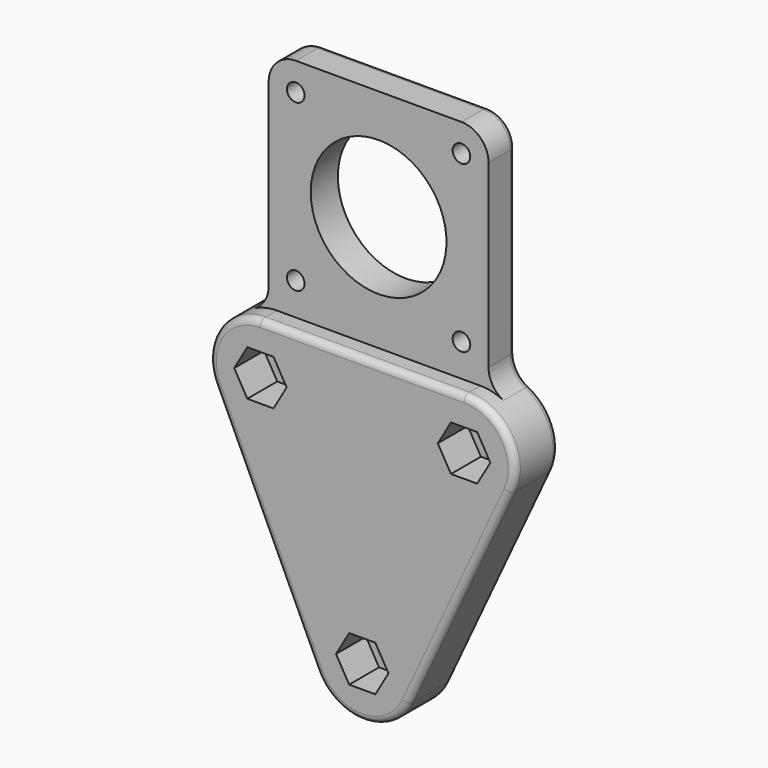
from build123d import *

# Parameters (mm, degrees)
F1_DEPTH       = 7
F0_R           = 2.75
F2_DEPTH       = 3.175
F3_R           = 12.7
F4_DEPTH       = 6.35
F5_D           = 3.3
F5_CBORE_D     = 6.5
F5_CBORE_DEPTH = 2.5
F6_R           = 5.08
F7_R           = 1.27


with BuildPart() as f1:
    # F0 (on Front) → F1 (new body)
    with BuildSketch(Plane.XZ):
        with BuildLine():
            Line((19.05, 0), (-19.05, 0))
            ThreePointArc((-19.05, 0), (-27.0823171118, -4.4056732068), (-27.6841325359, -13.5471114297))
            Line((-27.6841325359, -13.5471114297), (-8.6341325359, -54.4411114297))
            ThreePointArc((-8.6341325359, -54.4411114297), (0, -59.944), (8.6341325359, -54.4411114297))
            Line((8.6341325359, -54.4411114297), (27.6841325359, -13.5471114297))
            ThreePointArc((27.6841325359, -13.5471114297), (27.0823171118, -4.4056732068), (19.05, 0))
        make_face()
        Polygon((4.9074772881, -50.419), (2.4537386441, -54.669), (-2.4537386441, -54.669), (-4.9074772881, -50.419), (-2.4537386441, -46.169), (2.4537386441, -46.169), align=None, mode=Mode.SUBTRACT)
        Polygon((-14.1425227119, -9.525), (-16.5962613559, -13.775), (-21.5037386441, -13.775), (-23.9574772881, -9.525), (-21.5037386441, -5.275), (-16.5962613559, -5.275), align=None, mode=Mode.SUBTRACT)
        Polygon((23.9574772881, -9.525), (21.5037386441, -13.775), (16.5962613559, -13.775), (14.1425227119, -9.525), (16.5962613559, -5.275), (21.5037386441, -5.275), align=None, mode=Mode.SUBTRACT)
    extrude(amount=F1_DEPTH)

    # F0 (on Front) → F2 (join)
    with BuildSketch(Plane.XZ):
        with BuildLine():
            Line((19.05, 0), (-19.05, 0))
            ThreePointArc((-19.05, 0), (-27.0823171118, -4.4056732068), (-27.6841325359, -13.5471114297))
            Line((-27.6841325359, -13.5471114297), (-8.6341325359, -54.4411114297))
            ThreePointArc((-8.6341325359, -54.4411114297), (0, -59.944), (8.6341325359, -54.4411114297))
            Line((8.6341325359, -54.4411114297), (27.6841325359, -13.5471114297))
            ThreePointArc((27.6841325359, -13.5471114297), (27.0823171118, -4.4056732068), (19.05, 0))
        make_face()
        Polygon((4.9074772881, -50.419), (2.4537386441, -54.669), (-2.4537386441, -54.669), (-4.9074772881, -50.419), (-2.4537386441, -46.169), (2.4537386441, -46.169), align=None, mode=Mode.SUBTRACT)
        Polygon((-14.1425227119, -9.525), (-16.5962613559, -13.775), (-21.5037386441, -13.775), (-23.9574772881, -9.525), (-21.5037386441, -5.275), (-16.5962613559, -5.275), align=None, mode=Mode.SUBTRACT)
        Polygon((23.9574772881, -9.525), (21.5037386441, -13.775), (16.5962613559, -13.775), (14.1425227119, -9.525), (16.5962613559, -5.275), (21.5037386441, -5.275), align=None, mode=Mode.SUBTRACT)
        Polygon((16.5962613559, -13.775), (21.5037386441, -13.775), (23.9574772881, -9.525), (21.5037386441, -5.275), (16.5962613559, -5.275), (14.1425227119, -9.525), align=None)
        with Locations((19.05, -9.525)):
            Circle(F0_R, mode=Mode.SUBTRACT)
        Polygon((-21.5037386441, -13.775), (-16.5962613559, -13.775), (-14.1425227119, -9.525), (-16.5962613559, -5.275), (-21.5037386441, -5.275), (-23.9574772881, -9.525), align=None)
        with Locations((-19.05, -9.525)):
            Circle(F0_R, mode=Mode.SUBTRACT)
        Polygon((-2.4537386441, -54.669), (2.4537386441, -54.669), (4.9074772881, -50.419), (2.4537386441, -46.169), (-2.4537386441, -46.169), (-4.9074772881, -50.419), align=None)
        with Locations((0, -50.419)):
            Circle(F0_R, mode=Mode.SUBTRACT)
    extrude(amount=-F2_DEPTH)

    # F3 (on face) → F4 (join)
    with BuildSketch(Plane(origin=(0, 3.175, 0), x_dir=(-1, 0, 0), z_dir=(0, 1, 0))):
        with BuildLine():
            Line((20.574, -0.1227104384), (20.574, 42.2952895616))
            Line((20.574, 42.2952895616), (-20.574, 42.2952895616))
            Line((-20.574, 42.2952895616), (-20.574, -0.1227104384))
            ThreePointArc((-20.574, -0.1227104384), (-19.8144661294, -0.0307271718), (-19.05, 0))
            Line((-19.05, 0), (19.05, 0))
            ThreePointArc((19.05, 0), (19.8144661294, -0.0307271718), (20.574, -0.1227104384))
        make_face()
        with Locations((0, 21.59)):
            Circle(F3_R, mode=Mode.SUBTRACT)
    extrude(amount=-F4_DEPTH)

    # F5 (through all)
    with Locations(Plane(origin=(0, 3.175, 0), x_dir=(-1, 0, 0), z_dir=(0, 1, 0))):
        with Locations((-15.5, 37.09), (15.5, 37.09), (15.5, 6.09), (-15.5, 6.09)):
            CounterBoreHole(F5_D / 2, F5_CBORE_D / 2, F5_CBORE_DEPTH)

    # F6
    f6_edges = [f1.edges().sort_by_distance(p)[0] for p in [
        (20.574, 0, 42.29529),
        (-20.574, 0, 42.29529),
        (-20.574, 0, -0.12271),
        (20.574, 0, -0.12271),
    ]]
    fillet(f6_edges, radius=F6_R)

    # F7
    f7_edges = [f1.edges().sort_by_distance(p)[0] for p in [
        (28.052301, 3.175, -6.413054),
        (18.159133, -7, -33.994111),
    ]]
    fillet(f7_edges, radius=F7_R)


solid = f1.part
